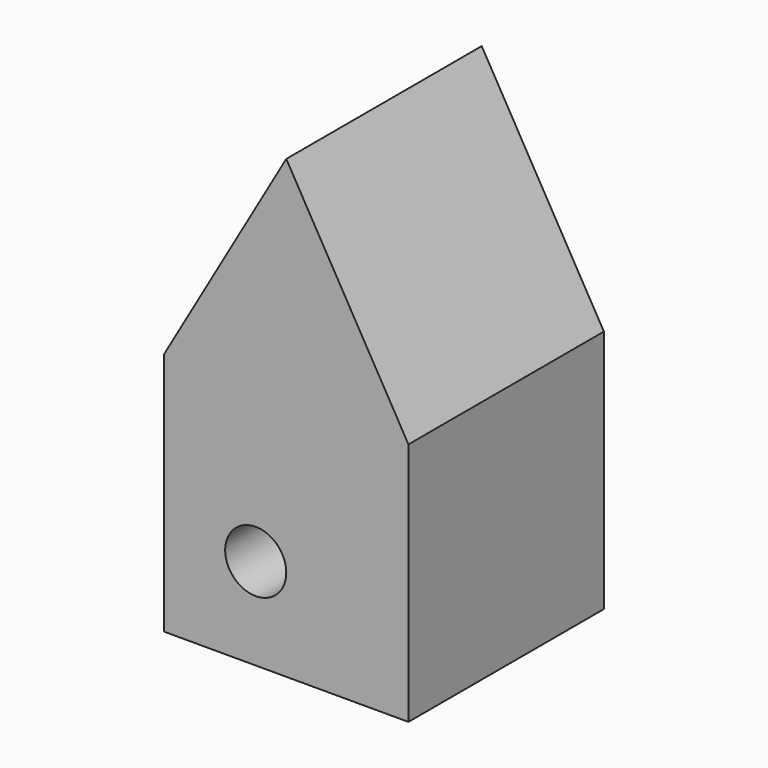
from build123d import *

# Parameters (mm, degrees)
F0_R     = 6.35
F1_DEPTH = 50.8
F2_DEPTH = 50.8


with BuildPart() as f1:
    # F0 (on Front) → F1 (new body)
    with BuildSketch(Plane.XZ):
        Polygon((7.091174, 9.634301), (7.091174, -41.165699), (57.891174, -41.165699), (57.891174, 9.634301), (32.491174, 53.628391), align=None)
        with Locations((26.141174, -22.1157)):
            Circle(F0_R, mode=Mode.SUBTRACT)
    extrude(amount=F1_DEPTH)

    # F0 (on Front) → F2 (join)
    with BuildSketch(Plane.XZ):
        Polygon((7.091174, 9.634301), (7.091174, -41.165699), (57.891174, -41.165699), (57.891174, 9.634301), (32.491174, 53.628391), align=None)
        with Locations((26.141174, -22.1157)):
            Circle(F0_R, mode=Mode.SUBTRACT)
    extrude(amount=F2_DEPTH)


solid = f1.part
